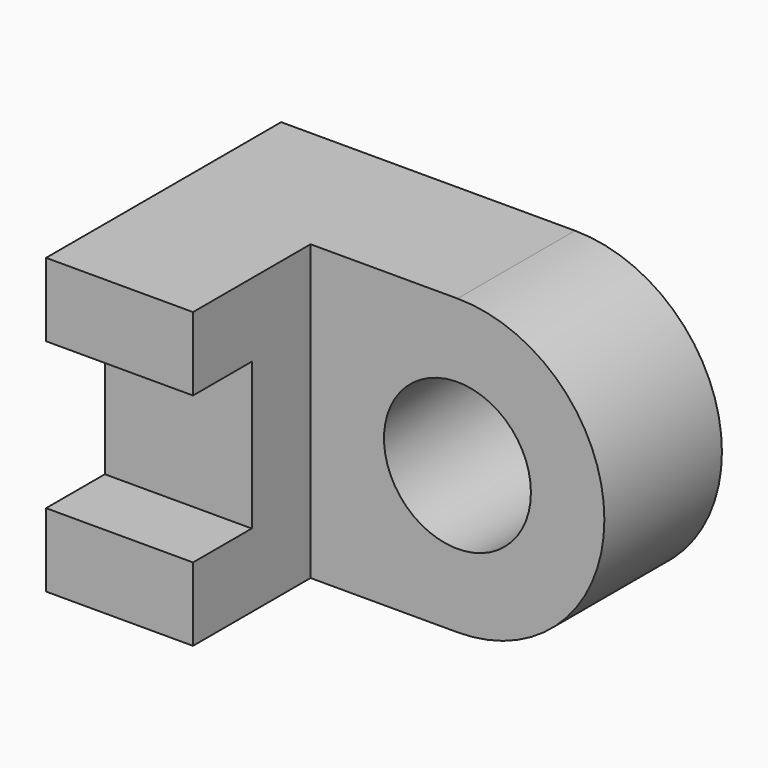
from build123d import *

# Parameters (mm, degrees)
F1_DEPTH = 12.7
F2_R     = 6.35
F3_DEPTH = 12.701
F4_W     = 12.7
F4_H     = 25.4
F5_DEPTH = 12.7
F6_W     = 6.35
F6_H     = 12.7
F7_DEPTH = 12.701


with BuildPart() as f1:
    # F0 (on Front) → F1 (new body)
    with BuildSketch(Plane.XZ):
        with BuildLine():
            Line((0, 0), (25.4, 0))
            ThreePointArc((25.4, 0), (38.1, 12.7), (25.4, 25.4))
            Line((25.4, 25.4), (0, 25.4))
            Line((0, 25.4), (0, 0))
        make_face()
    extrude(amount=F1_DEPTH)

    # F2 (on face) → F3 (cut, through all)
    with BuildSketch(Plane.XZ.offset(12.7)):
        with Locations((25.4, 12.7)):
            Circle(F2_R)
    extrude(amount=-F3_DEPTH, mode=Mode.SUBTRACT)

    # F4 (on face) → F5 (join)
    with BuildSketch(Plane.XZ.offset(12.7)):
        with Locations((6.35, 12.7)):
            Rectangle(F4_W, F4_H)
    extrude(amount=F5_DEPTH)

    # F6 (on face) → F7 (cut, through all)
    with BuildSketch(Plane.YZ.offset(12.7)):
        with Locations((-22.225, 12.7)):
            Rectangle(F6_W, F6_H)
    extrude(amount=-F7_DEPTH, mode=Mode.SUBTRACT)


solid = f1.part
